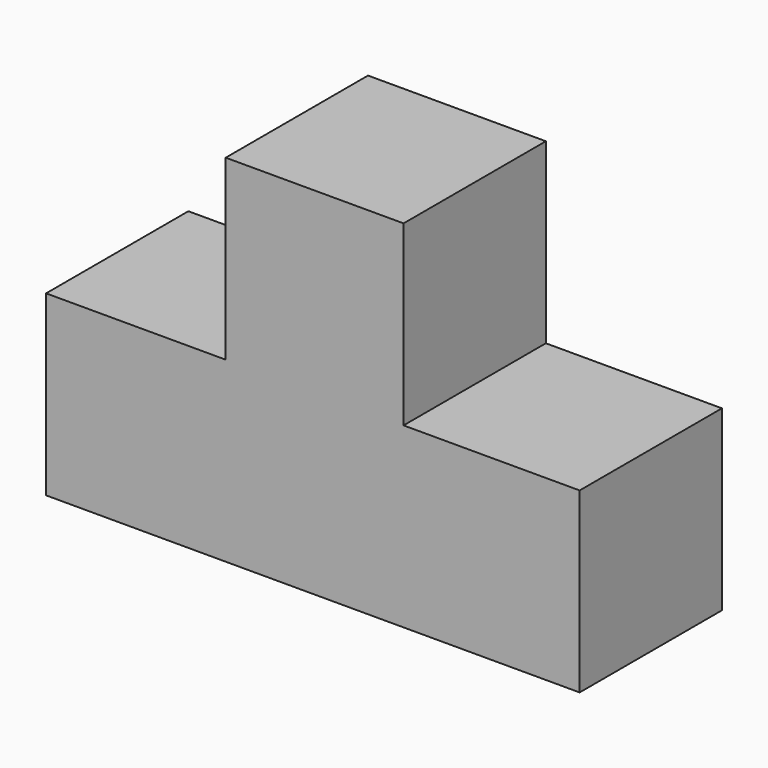
from build123d import *

# Parameters (mm, degrees)
F0_W     = 57.15
F0_H     = 19.05
F1_DEPTH = 19.05
F3_DEPTH = 19.05


with BuildPart() as f1:
    # F0 (on Front) → F1 (new body)
    with BuildSketch(Plane.XZ):
        with Locations((-65.854151, 30.788471)):
            Rectangle(F0_W, F0_H)
    extrude(amount=F1_DEPTH)

    # F2 (on face) → F3 (join)
    with BuildSketch(Plane.XY.offset(40.313471)):
        Polygon((-56.138652, 0), (-75.188652, 0), (-75.188652, -19.05), (-56.138652, -19.05), (-56.138652, -9.525), align=None)
    extrude(amount=F3_DEPTH)


solid = f1.part
